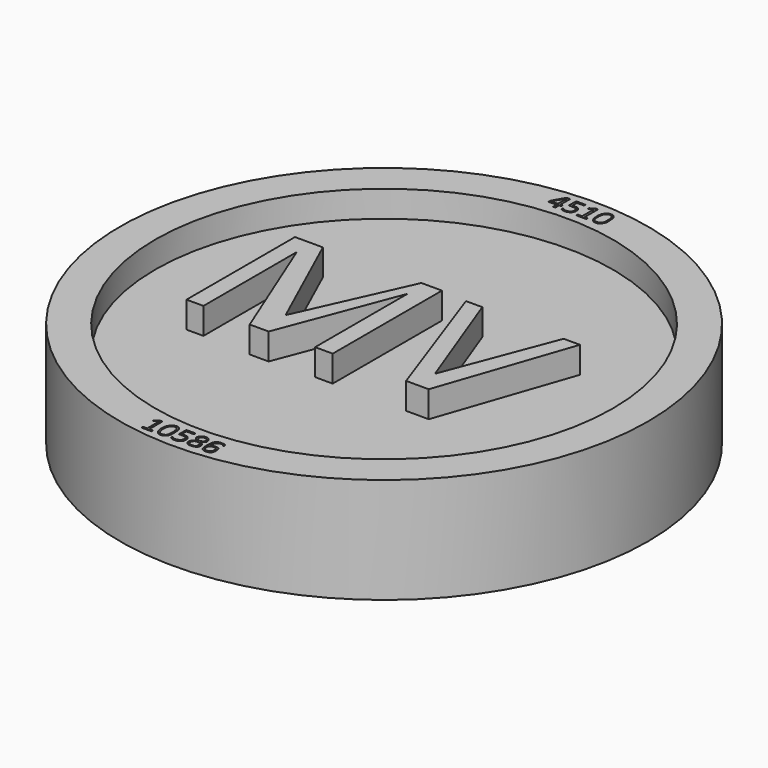
from build123d import *

# Parameters (mm, degrees)
F0_R     = 9.525
F0_R_2   = 8.255
F1_DEPTH = 1.905
F2_DEPTH = 0.9525
F3_DEPTH = 1.905
F4_DEPTH = 0.9525
F5_DEPTH = 0.9525


with BuildPart() as f1:
    # F0 (on Top) → F1 (new body, symmetric)
    with BuildSketch(Plane.XY):
        Circle(F0_R)
        Polygon((-1.3951599831, -8.6530307308), (-1.2445116881, -8.5451034829), (-1.1590693612, -8.5406070575), (-1.1590693612, -9.1431997716), (-1.0219119722, -9.1431997716), (-1.0219119722, -9.2084063217), (-1.3861660846, -9.2084063217), (-1.3861660846, -9.1409515589), (-1.2355177896, -9.1409515589), (-1.2355177896, -8.6013162509), (-1.3951599831, -8.6980005726), align=None, mode=Mode.SUBTRACT)
        with BuildLine():
            add(Edge.make_bspline(
                [(-0.7325854385, -8.5295895115), (-0.694488356, -8.5186539781), (-0.598456452, -8.5132604432), (-0.4668643613, -8.6329966153), (-0.473857386, -8.837187338), (-0.4553138278, -9.0349475641), (-0.5302551626, -9.1555896379), (-0.6225535187, -9.2273104606), (-0.8112157175, -9.2263758785), (-0.9326151926, -9.0135050278), (-0.9310493686, -8.7507865437), (-0.8342967815, -8.5794165711), (-0.7676343486, -8.5396500857), (-0.7325854385, -8.5295895115)],
                knots=[0, 0, 0, 0, 0.0792910129, 0.1672150952, 0.2671987172, 0.3665309655, 0.4474281264, 0.5218186122, 0.6112165947, 0.7163483965, 0.8308699787, 0.9270531129, 1, 1, 1, 1], degree=3))
        make_face(mode=Mode.SUBTRACT)
        with BuildLine():
            Line((-0.3130540426, -8.8640088215), (-0.3130540426, -8.5312332958))
            Line((-0.3130540426, -8.5312332958), (0.0197213649, -8.5312332958))
            Line((0.0197213649, -8.5312332958), (0.0197213649, -8.6009362713))
            Line((0.0197213649, -8.6009362713), (-0.2523450239, -8.6009362713))
            Line((-0.2523450239, -8.6009362713), (-0.2523450239, -8.8100451976))
            Line((-0.2523450239, -8.8100451976), (-0.0724664205, -8.8100451976))
            add(Edge.make_bspline(
                [(-0.1061936564, -8.8640088215), (-0.08878096, -8.8688395898), (-0.0427447295, -8.8816112803), (0.0001901198, -9.062268373), (-0.0988020252, -9.1446335354), (-0.2699482189, -9.1764570385), (-0.3351037073, -9.0894257934), (-0.3768801287, -9.1540332129), (-0.2913658027, -9.2190433777), (-0.0583716037, -9.2381349457), (0.0754566951, -9.0835836428), (0.0463306738, -8.8831391739), (-0.028410204, -8.8303870926), (-0.0724664205, -8.8100451976)],
                knots=[0, 0, 0, 0, 0.0623687221, 0.1658931602, 0.255157042, 0.3600933619, 0.4334544403, 0.4858395153, 0.5621831445, 0.6849553413, 0.7952951297, 0.905186019, 1, 1, 1, 1], degree=3))
            Line((-0.1061936564, -8.8640088215), (-0.3130540426, -8.8640088215))
        make_face(mode=Mode.SUBTRACT)
        with BuildLine():
            add(Edge.make_bspline(
                [(0.3356126728, -8.530912197), (0.3755638656, -8.5205027856), (0.4629959878, -8.5238627362), (0.5633196028, -8.5990280497), (0.5871538506, -8.6821558107), (0.599756856, -8.7892928168), (0.3721631381, -8.8581760383), (0.6155486438, -8.8997680176), (0.6299626951, -9.1331090491), (0.5111417851, -9.1809193235), (0.4632399938, -9.2014095625), (0.3000856497, -9.2075659862), (0.1965721483, -9.1456502108), (0.1384226358, -8.9577611015), (0.3914234177, -8.8555054026), (0.1515975365, -8.7551259256), (0.2218635711, -8.5883514), (0.2953774633, -8.5413956098), (0.3356126728, -8.530912197)],
                knots=[0, 0, 0, 0, 0.0618712277, 0.1216549185, 0.1725943034, 0.2261194555, 0.2915803701, 0.3570475386, 0.4338498476, 0.4909476215, 0.5320755879, 0.6004432316, 0.6609982939, 0.7303071838, 0.8024583934, 0.8715290842, 0.9376889242, 1, 1, 1, 1], degree=3))
        make_face(mode=Mode.SUBTRACT)
        with BuildLine():
            add(Edge.make_bspline(
                [(1.1000286322, -8.6331740022), (1.0919489468, -8.6275154276), (1.0893084931, -8.5921908876), (0.9886948629, -8.5844599675), (0.9032522086, -8.5849936436), (0.8366871623, -8.6689470682), (0.8001652962, -8.7301459856), (0.7865363263, -8.872731282), (0.8902588366, -8.8024443911), (1.03455332, -8.7988957788), (1.142202666, -8.8665536763), (1.1480954406, -9.1254508363), (1.0281815275, -9.2189323482), (0.8466835351, -9.2168213079), (0.708680849, -9.1199977075), (0.7340996051, -8.7235430379), (0.7467084889, -8.6493977358), (0.8430282241, -8.5283971321), (1.0051546697, -8.5297678427), (1.1087739938, -8.5384707531), (1.1395844082, -8.6358296554), (1.1068988089, -8.6379855023), (1.1000286322, -8.6331740022)],
                knots=[0, 0, 0, 0, 0.0272796803, 0.0718765845, 0.1155693355, 0.161458938, 0.2042733645, 0.2506697251, 0.293125102, 0.3498460132, 0.3993876083, 0.470607145, 0.5254238768, 0.5858900613, 0.6431081949, 0.733668426, 0.7767054938, 0.830802462, 0.890028405, 0.936752065, 0.9768040196, 1, 1, 1, 1], degree=3))
        make_face(mode=Mode.SUBTRACT)
        Polygon((-1.0375691345, 8.8068433106), (-0.7947330014, 9.22955852), (-0.6688179565, 9.22955852), (-0.6688179565, 8.8023468852), (-0.5878725788, 8.8023468852), (-0.5878725788, 8.7348921224), (-0.6688179565, 8.7348921224), (-0.6688179565, 8.5595101118), (-0.7542602834, 8.5595101118), (-0.7542602834, 8.7169045582), (-1.0375691345, 8.7169045582), align=None, mode=Mode.SUBTRACT)
        with BuildLine():
            Line((-0.4529636353, 8.8967829943), (-0.4529636353, 9.22955852))
            Line((-0.4529636353, 9.22955852), (-0.1156912549, 9.22955852))
            Line((-0.1156912549, 9.22955852), (-0.1156912549, 9.1621037573))
            Line((-0.1156912549, 9.1621037573), (-0.3675213084, 9.1621037573))
            Line((-0.3675213084, 9.1621037573), (-0.3675213084, 8.9597404003))
            Line((-0.3675213084, 8.9597404003), (-0.2101275459, 8.9597404003))
            add(Edge.make_bspline(
                [(-0.2739850606, 8.8967829943), (-0.2601480212, 8.8904600335), (-0.1771303875, 8.8934701463), (-0.1397957843, 8.8140190969), (-0.1333147566, 8.6513328942), (-0.2712314833, 8.6061213548), (-0.4158916196, 8.5964243556), (-0.4563615133, 8.6682317071), (-0.4855222574, 8.6121259078), (-0.4391459941, 8.5444167798), (-0.2380009448, 8.5479975171), (-0.1772834066, 8.5899293666), (-0.1151549326, 8.6188684882), (-0.068310583, 8.7411691828), (-0.0865679501, 8.8972959176), (-0.1709831536, 8.9399575948), (-0.2101275459, 8.9597404003)],
                knots=[0, 0, 0, 0, 0.0655136068, 0.130205982, 0.215223191, 0.2969575923, 0.3818970487, 0.4342469042, 0.4773941856, 0.5359305424, 0.6348886547, 0.6968096855, 0.7524908212, 0.832346209, 0.9186916053, 1, 1, 1, 1], degree=3))
            Line((-0.2739850606, 8.8967829943), (-0.4529636353, 8.8967829943))
        make_face(mode=Mode.SUBTRACT)
        Circle(F0_R_2, mode=Mode.SUBTRACT)
        Polygon((0.2462355478, 9.1407261789), (0.1126825082, 9.073949419), (0.0920135863, 9.0707698837), (0.0920135863, 9.1248266399), (0.2605447953, 9.2265810817), (0.3384507436, 9.2265810817), (0.3384507436, 8.6224125698), (0.4576945503, 8.6224125698), (0.4576945503, 8.5588162765), (0.0936035067, 8.5588162765), (0.0936035067, 8.6240023375), (0.2462355478, 8.6240023375), align=None, mode=Mode.SUBTRACT)
        with BuildLine():
            add(Edge.make_bspline(
                [(0.8066518349, 9.2266853899), (0.8356636163, 9.2277041351), (0.9030044341, 9.226075903), (1.0002347916, 9.1173239027), (1.023045702, 8.9755928684), (1.036475031, 8.7143286402), (0.9422841467, 8.613581228), (0.8585594981, 8.5334077149), (0.6713084665, 8.5552121068), (0.5852846712, 8.7035614297), (0.5641475769, 8.9342742717), (0.6001818229, 9.1117751213), (0.7170444559, 9.2195821933), (0.7784248537, 9.2256942028), (0.8066518349, 9.2266853899)],
                knots=[0, 0, 0, 0, 0.0650677134, 0.1429910352, 0.2270210585, 0.3356485181, 0.4136659971, 0.4847413422, 0.57198415, 0.6583235465, 0.7623194063, 0.8543677014, 0.9366924392, 1, 1, 1, 1], degree=3))
        make_face(mode=Mode.SUBTRACT)
    extrude(amount=F1_DEPTH, both=True)

    # F0 (on Top) → F2 (join, symmetric)
    with BuildSketch(Plane.XY):
        Circle(F0_R_2)
        Polygon((-4.6643195674, -2.3178029805), (-5.2759069949, -2.3178029805), (-5.2759069949, 2.5748948101), (-5.0960280932, 2.5748948101), (-4.2685871013, 2.5748948101), (-2.5057764724, -1.3104829704), (-0.7429663092, 2.610870637), (0, 2.610870637), (0, -2.3178029805), (-0.6350391777, -2.3178029805), (-0.6350391777, 1.8553804839), (-2.2539466154, -2.3897546344), (-2.9374852311, -2.3897546344), (-4.6643195674, 1.891356078), align=None, mode=Mode.SUBTRACT)
        Polygon((2.6529424358, -2.3231687956), (0.9285868728, 2.5322537404), (1.5184980584, 2.5322537404), (3.0159647577, -1.4761168277), (4.5134318061, 2.4566242937), (5.1033427007, 2.4566242937), (3.4697426017, -2.3231687956), align=None, mode=Mode.SUBTRACT)
        Polygon((-5.2759069949, 2.5748948101), (-5.2759069949, -2.3178029805), (-4.6643195674, -2.3178029805), (-4.6643195674, 1.891356078), (-2.9374852311, -2.3897546344), (-2.2539466154, -2.3897546344), (-0.6350391777, 1.8553804839), (-0.6350391777, -2.3178029805), (0, -2.3178029805), (0, 2.610870637), (-0.7429663092, 2.610870637), (-2.5057764724, -1.3104829704), (-4.2685871013, 2.5748948101), (-5.0960280932, 2.5748948101), align=None)
        Polygon((1.5184980584, 2.5322537404), (0.9285868728, 2.5322537404), (2.6529424358, -2.3231687956), (3.4697426017, -2.3231687956), (5.1033427007, 2.4566242937), (4.5134318061, 2.4566242937), (3.0159647577, -1.4761168277), align=None)
    extrude(amount=F2_DEPTH, both=True)

    # F0 (on Top) → F3 (join)
    with BuildSketch(Plane.XY):
        Polygon((-5.2759069949, 2.5748948101), (-5.2759069949, -2.3178029805), (-4.6643195674, -2.3178029805), (-4.6643195674, 1.891356078), (-2.9374852311, -2.3897546344), (-2.2539466154, -2.3897546344), (-0.6350391777, 1.8553804839), (-0.6350391777, -2.3178029805), (0, -2.3178029805), (0, 2.610870637), (-0.7429663092, 2.610870637), (-2.5057764724, -1.3104829704), (-4.2685871013, 2.5748948101), (-5.0960280932, 2.5748948101), align=None)
        Polygon((1.5184980584, 2.5322537404), (0.9285868728, 2.5322537404), (2.6529424358, -2.3231687956), (3.4697426017, -2.3231687956), (5.1033427007, 2.4566242937), (4.5134318061, 2.4566242937), (3.0159647577, -1.4761168277), align=None)
    extrude(amount=F3_DEPTH)



with BuildPart() as f1b:
    # F0 (on Top) → F1, piece 2 (new body, symmetric)
    with BuildSketch(Plane.XY):
        with BuildLine():
            add(Edge.make_bspline(
                [(-0.7056364557, -8.5862921551), (-0.6749598451, -8.5788539294), (-0.6154051945, -8.5916187466), (-0.5302737881, -8.6763906944), (-0.5110017751, -9.0910240758), (-0.6191818694, -9.1484923022), (-0.7775162156, -9.1734948456), (-0.8753592441, -8.987404333), (-0.863777607, -8.6821581866), (-0.7483395928, -8.5966464793), (-0.7056364557, -8.5862921551)],
                knots=[0, 0, 0, 0, 0.0869953602, 0.1883892706, 0.376243649, 0.4747134022, 0.584423645, 0.713858861, 0.8788987856, 1, 1, 1, 1], degree=3))
        make_face()
    extrude(amount=F1_DEPTH, both=True)


with BuildPart() as f1c:
    # F0 (on Top) → F1, piece 3 (new body, symmetric)
    with BuildSketch(Plane.XY):
        with BuildLine():
            add(Edge.make_bspline(
                [(0.3955436065, -8.9011455625), (0.4178982746, -8.9024802295), (0.4564840971, -8.9121952769), (0.5098843992, -8.956330871), (0.538504284, -9.0179324678), (0.5267717546, -9.0994944629), (0.4818763147, -9.1568813484), (0.3872632665, -9.1543922468), (0.2972080697, -9.1514571408), (0.2365914479, -9.0910445664), (0.2390282469, -8.9736821072), (0.3070037433, -8.9059765314), (0.3693859568, -8.8995838416), (0.3955436065, -8.9011455625)],
                knots=[0, 0, 0, 0, 0.0804782787, 0.1636067548, 0.2466777227, 0.3377083866, 0.4201479157, 0.517369013, 0.6140786063, 0.7029280419, 0.8091313578, 0.9058307369, 1, 1, 1, 1], degree=3))
        make_face()
    extrude(amount=F1_DEPTH, both=True)


with BuildPart() as f1d:
    # F0 (on Top) → F1, piece 4 (new body, symmetric)
    with BuildSketch(Plane.XY):
        with BuildLine():
            add(Edge.make_bspline(
                [(0.3495283599, -8.5925385356), (0.3874543793, -8.5819729785), (0.4746549244, -8.5953328442), (0.5241674625, -8.6481249566), (0.5302317746, -8.7471085287), (0.473743285, -8.7947578121), (0.3967854091, -8.8193565318), (0.3332327154, -8.8035046144), (0.2781707359, -8.7571894123), (0.2674653949, -8.648760599), (0.3163316902, -8.6017865747), (0.3495283599, -8.5925385356)],
                knots=[0, 0, 0, 0, 0.135161764, 0.23679406, 0.3519394065, 0.4538559125, 0.562655046, 0.6597439079, 0.7603072423, 0.8816928188, 1, 1, 1, 1], degree=3))
        make_face()
    extrude(amount=F1_DEPTH, both=True)


with BuildPart() as f1e:
    # F0 (on Top) → F1, piece 5 (new body, symmetric)
    with BuildSketch(Plane.XY):
        with BuildLine():
            add(Edge.make_bspline(
                [(0.9272282477, -8.8670067489), (0.9510508559, -8.8667263185), (0.9917494655, -8.8626056276), (1.0558891359, -8.8943504131), (1.0763617157, -8.9669175414), (1.0801000409, -9.067001359), (1.0254670169, -9.1197417455), (0.9868252031, -9.1556817222), (0.8792157357, -9.150669163), (0.7946026271, -9.1005044185), (0.7787601903, -8.9780120339), (0.833171587, -8.8630413555), (0.9003123207, -8.8673235927), (0.9272282477, -8.8670067489)],
                knots=[0, 0, 0, 0, 0.0809688656, 0.1602861774, 0.2457444723, 0.344228083, 0.4281763039, 0.4989212753, 0.5992926202, 0.6950363368, 0.8023879824, 0.9085174861, 1, 1, 1, 1], degree=3))
        make_face()
    extrude(amount=F1_DEPTH, both=True)


with BuildPart() as f1f:
    # F0 (on Top) → F1, piece 6 (new body, symmetric)
    with BuildSketch(Plane.XY):
        Polygon((-0.7607381558, 8.7903402746), (-0.7607381558, 9.1622862965), (-0.9919482982, 8.8221384212), (-0.9919482982, 8.7903402746), align=None)
    extrude(amount=F1_DEPTH, both=True)


with BuildPart() as f1g:
    # F0 (on Top) → F1, piece 7 (new body, symmetric)
    with BuildSketch(Plane.XY):
        with BuildLine():
            add(Edge.make_bspline(
                [(0.7969355211, 9.1732721776), (0.8183858919, 9.1794774058), (0.8729013985, 9.1772740026), (0.9453804827, 9.0853763746), (0.9658440309, 8.9597899175), (0.9685739875, 8.8100407074), (0.9488342294, 8.6789829072), (0.8830664255, 8.6131024514), (0.7738697202, 8.6083131675), (0.6822810129, 8.6235358392), (0.6192528002, 8.7490822948), (0.622675418, 9.0163217273), (0.6883648981, 9.1313580877), (0.7524784887, 9.1651529074), (0.7950217696, 9.1727431864)],
                knots=[0, 0, 0, 0, 0.0629706114, 0.1416055969, 0.2277453529, 0.3219830841, 0.4082977015, 0.4776293539, 0.5555499369, 0.6251304735, 0.7110309707, 0.8353640155, 0.9204092906, 1, 1, 1, 1], degree=3))
            add(Edge.make_bspline(
                [(0.7950217696, 9.1727431864), (0.7956596867, 9.1729195168), (0.7962976039, 9.1730958472), (0.7969355211, 9.1732721776)],
                knots=[0, 0, 0, 0, 0.0019855167, 0.0019855167, 0.0019855167, 0.0019855167], degree=3))
        make_face()
    extrude(amount=F1_DEPTH, both=True)


with BuildPart() as f4:
    # F0 (on Top) → F4 (new body, symmetric)
    with BuildSketch(Plane.XY):
        Polygon((-1.1590693612, -8.5406070575), (-1.2445116881, -8.5451034829), (-1.3951599831, -8.6530307308), (-1.3951599831, -8.6980005726), (-1.2355177896, -8.6013162509), (-1.2355177896, -9.1409515589), (-1.3861660846, -9.1409515589), (-1.3861660846, -9.2084063217), (-1.0219119722, -9.2084063217), (-1.0219119722, -9.1431997716), (-1.1590693612, -9.1431997716), align=None)
    extrude(amount=F4_DEPTH, both=True)


with BuildPart() as f4b:
    # F0 (on Top) → F4, piece 2 (new body, symmetric)
    with BuildSketch(Plane.XY):
        with BuildLine():
            add(Edge.make_bspline(
                [(-0.7325854385, -8.5295895115), (-0.694488356, -8.5186539781), (-0.598456452, -8.5132604432), (-0.4668643613, -8.6329966153), (-0.473857386, -8.837187338), (-0.4553138278, -9.0349475641), (-0.5302551626, -9.1555896379), (-0.6225535187, -9.2273104606), (-0.8112157175, -9.2263758785), (-0.9326151926, -9.0135050278), (-0.9310493686, -8.7507865437), (-0.8342967815, -8.5794165711), (-0.7676343486, -8.5396500857), (-0.7325854385, -8.5295895115)],
                knots=[0, 0, 0, 0, 0.0792910129, 0.1672150952, 0.2671987172, 0.3665309655, 0.4474281264, 0.5218186122, 0.6112165947, 0.7163483965, 0.8308699787, 0.9270531129, 1, 1, 1, 1], degree=3))
        make_face()
        with BuildLine():
            add(Edge.make_bspline(
                [(-0.7056364557, -8.5862921551), (-0.6749598451, -8.5788539294), (-0.6154051945, -8.5916187466), (-0.5302737881, -8.6763906944), (-0.5110017751, -9.0910240758), (-0.6191818694, -9.1484923022), (-0.7775162156, -9.1734948456), (-0.8753592441, -8.987404333), (-0.863777607, -8.6821581866), (-0.7483395928, -8.5966464793), (-0.7056364557, -8.5862921551)],
                knots=[0, 0, 0, 0, 0.0869953602, 0.1883892706, 0.376243649, 0.4747134022, 0.584423645, 0.713858861, 0.8788987856, 1, 1, 1, 1], degree=3))
        make_face(mode=Mode.SUBTRACT)
    extrude(amount=F4_DEPTH, both=True)


with BuildPart() as f4c:
    # F0 (on Top) → F4, piece 3 (new body, symmetric)
    with BuildSketch(Plane.XY):
        with BuildLine():
            Line((0.0197213649, -8.5312332958), (-0.3130540426, -8.5312332958))
            Line((-0.3130540426, -8.5312332958), (-0.3130540426, -8.8640088215))
            Line((-0.3130540426, -8.8640088215), (-0.1061936564, -8.8640088215))
            add(Edge.make_bspline(
                [(-0.1061936564, -8.8640088215), (-0.08878096, -8.8688395898), (-0.0427447295, -8.8816112803), (0.0001901198, -9.062268373), (-0.0988020252, -9.1446335354), (-0.2699482189, -9.1764570385), (-0.3351037073, -9.0894257934), (-0.3768801287, -9.1540332129), (-0.2913658027, -9.2190433777), (-0.0583716037, -9.2381349457), (0.0754566951, -9.0835836428), (0.0463306738, -8.8831391739), (-0.028410204, -8.8303870926), (-0.0724664205, -8.8100451976)],
                knots=[0, 0, 0, 0, 0.0623687221, 0.1658931602, 0.255157042, 0.3600933619, 0.4334544403, 0.4858395153, 0.5621831445, 0.6849553413, 0.7952951297, 0.905186019, 1, 1, 1, 1], degree=3))
            Line((-0.0724664205, -8.8100451976), (-0.2523450239, -8.8100451976))
            Line((-0.2523450239, -8.8100451976), (-0.2523450239, -8.6009362713))
            Line((-0.2523450239, -8.6009362713), (0.0197213649, -8.6009362713))
            Line((0.0197213649, -8.6009362713), (0.0197213649, -8.5312332958))
        make_face()
    extrude(amount=F4_DEPTH, both=True)


with BuildPart() as f4d:
    # F0 (on Top) → F4, piece 4 (new body, symmetric)
    with BuildSketch(Plane.XY):
        with BuildLine():
            add(Edge.make_bspline(
                [(0.3356126728, -8.530912197), (0.3755638656, -8.5205027856), (0.4629959878, -8.5238627362), (0.5633196028, -8.5990280497), (0.5871538506, -8.6821558107), (0.599756856, -8.7892928168), (0.3721631381, -8.8581760383), (0.6155486438, -8.8997680176), (0.6299626951, -9.1331090491), (0.5111417851, -9.1809193235), (0.4632399938, -9.2014095625), (0.3000856497, -9.2075659862), (0.1965721483, -9.1456502108), (0.1384226358, -8.9577611015), (0.3914234177, -8.8555054026), (0.1515975365, -8.7551259256), (0.2218635711, -8.5883514), (0.2953774633, -8.5413956098), (0.3356126728, -8.530912197)],
                knots=[0, 0, 0, 0, 0.0618712277, 0.1216549185, 0.1725943034, 0.2261194555, 0.2915803701, 0.3570475386, 0.4338498476, 0.4909476215, 0.5320755879, 0.6004432316, 0.6609982939, 0.7303071838, 0.8024583934, 0.8715290842, 0.9376889242, 1, 1, 1, 1], degree=3))
        make_face()
        with BuildLine():
            add(Edge.make_bspline(
                [(0.3955436065, -8.9011455625), (0.4178982746, -8.9024802295), (0.4564840971, -8.9121952769), (0.5098843992, -8.956330871), (0.538504284, -9.0179324678), (0.5267717546, -9.0994944629), (0.4818763147, -9.1568813484), (0.3872632665, -9.1543922468), (0.2972080697, -9.1514571408), (0.2365914479, -9.0910445664), (0.2390282469, -8.9736821072), (0.3070037433, -8.9059765314), (0.3693859568, -8.8995838416), (0.3955436065, -8.9011455625)],
                knots=[0, 0, 0, 0, 0.0804782787, 0.1636067548, 0.2466777227, 0.3377083866, 0.4201479157, 0.517369013, 0.6140786063, 0.7029280419, 0.8091313578, 0.9058307369, 1, 1, 1, 1], degree=3))
        make_face(mode=Mode.SUBTRACT)
        with BuildLine():
            add(Edge.make_bspline(
                [(0.3495283599, -8.5925385356), (0.3874543793, -8.5819729785), (0.4746549244, -8.5953328442), (0.5241674625, -8.6481249566), (0.5302317746, -8.7471085287), (0.473743285, -8.7947578121), (0.3967854091, -8.8193565318), (0.3332327154, -8.8035046144), (0.2781707359, -8.7571894123), (0.2674653949, -8.648760599), (0.3163316902, -8.6017865747), (0.3495283599, -8.5925385356)],
                knots=[0, 0, 0, 0, 0.135161764, 0.23679406, 0.3519394065, 0.4538559125, 0.562655046, 0.6597439079, 0.7603072423, 0.8816928188, 1, 1, 1, 1], degree=3))
        make_face(mode=Mode.SUBTRACT)
    extrude(amount=F4_DEPTH, both=True)


with BuildPart() as f4e:
    # F0 (on Top) → F4, piece 5 (new body, symmetric)
    with BuildSketch(Plane.XY):
        Polygon((-0.6688179565, 9.22955852), (-0.7947330014, 9.22955852), (-1.0375691345, 8.8068433106), (-1.0375691345, 8.7169045582), (-0.7542602834, 8.7169045582), (-0.7542602834, 8.5595101118), (-0.6688179565, 8.5595101118), (-0.6688179565, 8.7348921224), (-0.5878725788, 8.7348921224), (-0.5878725788, 8.8023468852), (-0.6688179565, 8.8023468852), align=None)
        Polygon((-0.9919482982, 8.8221384212), (-0.7607381558, 9.1622862965), (-0.7607381558, 8.7903402746), (-0.9919482982, 8.7903402746), align=None, mode=Mode.SUBTRACT)
    extrude(amount=F4_DEPTH, both=True)


with BuildPart() as f4f:
    # F0 (on Top) → F4, piece 6 (new body, symmetric)
    with BuildSketch(Plane.XY):
        with BuildLine():
            Line((-0.1156912549, 9.22955852), (-0.4529636353, 9.22955852))
            Line((-0.4529636353, 9.22955852), (-0.4529636353, 8.8967829943))
            Line((-0.4529636353, 8.8967829943), (-0.2739850606, 8.8967829943))
            add(Edge.make_bspline(
                [(-0.2739850606, 8.8967829943), (-0.2601480212, 8.8904600335), (-0.1771303875, 8.8934701463), (-0.1397957843, 8.8140190969), (-0.1333147566, 8.6513328942), (-0.2712314833, 8.6061213548), (-0.4158916196, 8.5964243556), (-0.4563615133, 8.6682317071), (-0.4855222574, 8.6121259078), (-0.4391459941, 8.5444167798), (-0.2380009448, 8.5479975171), (-0.1772834066, 8.5899293666), (-0.1151549326, 8.6188684882), (-0.068310583, 8.7411691828), (-0.0865679501, 8.8972959176), (-0.1709831536, 8.9399575948), (-0.2101275459, 8.9597404003)],
                knots=[0, 0, 0, 0, 0.0655136068, 0.130205982, 0.215223191, 0.2969575923, 0.3818970487, 0.4342469042, 0.4773941856, 0.5359305424, 0.6348886547, 0.6968096855, 0.7524908212, 0.832346209, 0.9186916053, 1, 1, 1, 1], degree=3))
            Line((-0.2101275459, 8.9597404003), (-0.3675213084, 8.9597404003))
            Line((-0.3675213084, 8.9597404003), (-0.3675213084, 9.1621037573))
            Line((-0.3675213084, 9.1621037573), (-0.1156912549, 9.1621037573))
            Line((-0.1156912549, 9.1621037573), (-0.1156912549, 9.22955852))
        make_face()
    extrude(amount=F4_DEPTH, both=True)


with BuildPart() as f4g:
    # F0 (on Top) → F4, piece 7 (new body, symmetric)
    with BuildSketch(Plane.XY):
        Polygon((0.0920135863, 9.0707698837), (0.1126825082, 9.073949419), (0.2462355478, 9.1407261789), (0.2462355478, 8.6240023375), (0.0936035067, 8.6240023375), (0.0936035067, 8.5588162765), (0.4576945503, 8.5588162765), (0.4576945503, 8.6224125698), (0.3384507436, 8.6224125698), (0.3384507436, 9.2265810817), (0.2605447953, 9.2265810817), (0.0920135863, 9.1248266399), align=None)
    extrude(amount=F4_DEPTH, both=True)


with BuildPart() as f4h:
    # F0 (on Top) → F4, piece 8 (new body, symmetric)
    with BuildSketch(Plane.XY):
        with BuildLine():
            add(Edge.make_bspline(
                [(0.8066518349, 9.2266853899), (0.8356636163, 9.2277041351), (0.9030044341, 9.226075903), (1.0002347916, 9.1173239027), (1.023045702, 8.9755928684), (1.036475031, 8.7143286402), (0.9422841467, 8.613581228), (0.8585594981, 8.5334077149), (0.6713084665, 8.5552121068), (0.5852846712, 8.7035614297), (0.5641475769, 8.9342742717), (0.6001818229, 9.1117751213), (0.7170444559, 9.2195821933), (0.7784248537, 9.2256942028), (0.8066518349, 9.2266853899)],
                knots=[0, 0, 0, 0, 0.0650677134, 0.1429910352, 0.2270210585, 0.3356485181, 0.4136659971, 0.4847413422, 0.57198415, 0.6583235465, 0.7623194063, 0.8543677014, 0.9366924392, 1, 1, 1, 1], degree=3))
        make_face()
        with BuildLine():
            add(Edge.make_bspline(
                [(0.7950217696, 9.1727431864), (0.7956596867, 9.1729195168), (0.7962976039, 9.1730958472), (0.7969355211, 9.1732721776)],
                knots=[0, 0, 0, 0, 0.0019855167, 0.0019855167, 0.0019855167, 0.0019855167], degree=3))
            add(Edge.make_bspline(
                [(0.7969355211, 9.1732721776), (0.8183858919, 9.1794774058), (0.8729013985, 9.1772740026), (0.9453804827, 9.0853763746), (0.9658440309, 8.9597899175), (0.9685739875, 8.8100407074), (0.9488342294, 8.6789829072), (0.8830664255, 8.6131024514), (0.7738697202, 8.6083131675), (0.6822810129, 8.6235358392), (0.6192528002, 8.7490822948), (0.622675418, 9.0163217273), (0.6883648981, 9.1313580877), (0.7524784887, 9.1651529074), (0.7950217696, 9.1727431864)],
                knots=[0, 0, 0, 0, 0.0629706114, 0.1416055969, 0.2277453529, 0.3219830841, 0.4082977015, 0.4776293539, 0.5555499369, 0.6251304735, 0.7110309707, 0.8353640155, 0.9204092906, 1, 1, 1, 1], degree=3))
        make_face(mode=Mode.SUBTRACT)
    extrude(amount=F4_DEPTH, both=True)


with BuildPart() as f4i:
    # F0 (on Top) → F4, piece 9 (new body, symmetric)
    with BuildSketch(Plane.XY):
        with BuildLine():
            add(Edge.make_bspline(
                [(1.1000286322, -8.6331740022), (1.0919489468, -8.6275154276), (1.0893084931, -8.5921908876), (0.9886948629, -8.5844599675), (0.9032522086, -8.5849936436), (0.8366871623, -8.6689470682), (0.8001652962, -8.7301459856), (0.7865363263, -8.872731282), (0.8902588366, -8.8024443911), (1.03455332, -8.7988957788), (1.142202666, -8.8665536763), (1.1480954406, -9.1254508363), (1.0281815275, -9.2189323482), (0.8466835351, -9.2168213079), (0.708680849, -9.1199977075), (0.7340996051, -8.7235430379), (0.7467084889, -8.6493977358), (0.8430282241, -8.5283971321), (1.0051546697, -8.5297678427), (1.1087739938, -8.5384707531), (1.1395844082, -8.6358296554), (1.1068988089, -8.6379855023), (1.1000286322, -8.6331740022)],
                knots=[0, 0, 0, 0, 0.0272796803, 0.0718765845, 0.1155693355, 0.161458938, 0.2042733645, 0.2506697251, 0.293125102, 0.3498460132, 0.3993876083, 0.470607145, 0.5254238768, 0.5858900613, 0.6431081949, 0.733668426, 0.7767054938, 0.830802462, 0.890028405, 0.936752065, 0.9768040196, 1, 1, 1, 1], degree=3))
        make_face()
        with BuildLine():
            add(Edge.make_bspline(
                [(0.9272282477, -8.8670067489), (0.9510508559, -8.8667263185), (0.9917494655, -8.8626056276), (1.0558891359, -8.8943504131), (1.0763617157, -8.9669175414), (1.0801000409, -9.067001359), (1.0254670169, -9.1197417455), (0.9868252031, -9.1556817222), (0.8792157357, -9.150669163), (0.7946026271, -9.1005044185), (0.7787601903, -8.9780120339), (0.833171587, -8.8630413555), (0.9003123207, -8.8673235927), (0.9272282477, -8.8670067489)],
                knots=[0, 0, 0, 0, 0.0809688656, 0.1602861774, 0.2457444723, 0.344228083, 0.4281763039, 0.4989212753, 0.5992926202, 0.6950363368, 0.8023879824, 0.9085174861, 1, 1, 1, 1], degree=3))
        make_face(mode=Mode.SUBTRACT)
    extrude(amount=F4_DEPTH, both=True)


with BuildPart() as f1_1:
    add(f1.part)

    add(f1b.part)  # F5 merges F1b

    add(f1c.part)  # F5 merges F1c

    add(f1d.part)  # F5 merges F1d

    add(f1e.part)  # F5 merges F1e

    add(f1f.part)  # F5 merges F1f

    add(f1g.part)  # F5 merges F1g

    add(f4.part)  # F5 merges F4

    add(f4b.part)  # F5 merges F4b

    add(f4c.part)  # F5 merges F4c

    add(f4d.part)  # F5 merges F4d

    add(f4e.part)  # F5 merges F4e

    add(f4f.part)  # F5 merges F4f

    add(f4g.part)  # F5 merges F4g

    add(f4h.part)  # F5 merges F4h

    add(f4i.part)  # F5 merges F4i
    # F4_face (on face) → F5 (join, symmetric)
    with BuildSketch(Plane(origin=(-0.7803742004, 8.8928666823, -0.9525), x_dir=(1, 0, 0), z_dir=(0, 0, -1))):
        Polygon((-0.014358801, -0.3366918377), (0.1115562439, -0.3366918377), (0.1115562439, 0.0905197971), (0.1925016216, 0.0905197971), (0.1925016216, 0.1579745598), (0.1115562439, 0.1579745598), (0.1115562439, 0.3333565705), (0.026113917, 0.3333565705), (0.026113917, 0.175962124), (-0.2571949341, 0.175962124), (-0.2571949341, 0.0860233717), align=None)
        Polygon((0.0196360446, -0.2694196142), (-0.2115740978, 0.070728261), (-0.2115740978, 0.1025264077), (0.0196360446, 0.1025264077), align=None, mode=Mode.SUBTRACT)
        with BuildLine():
            Line((0.3274105651, -0.3366918377), (0.6646829455, -0.3366918377))
            Line((0.6646829455, -0.3366918377), (0.6646829455, -0.269237075))
            Line((0.6646829455, -0.269237075), (0.412852892, -0.269237075))
            Line((0.412852892, -0.269237075), (0.412852892, -0.066873718))
            Line((0.412852892, -0.066873718), (0.5702466545, -0.066873718))
            add(Edge.make_bspline(
                [(0.5063891398, -0.003916312), (0.5202261792, 0.0024066488), (0.6032438129, -0.000603464), (0.6405784161, 0.0788475854), (0.6470594438, 0.241533788), (0.5091427171, 0.2867453275), (0.3644825808, 0.2964423267), (0.3240126871, 0.2246349751), (0.294851943, 0.2807407745), (0.3412282064, 0.3484499025), (0.5423732556, 0.3448691651), (0.6030907938, 0.3029373157), (0.6652192678, 0.2739981941), (0.7120636174, 0.1516974995), (0.6938062503, -0.0044292354), (0.6093910468, -0.0470909125), (0.5702466545, -0.066873718)],
                knots=[0, 0, 0, 0, 0.0655136068, 0.130205982, 0.215223191, 0.2969575923, 0.3818970487, 0.4342469042, 0.4773941856, 0.5359305424, 0.6348886547, 0.6968096855, 0.7524908212, 0.832346209, 0.9186916053, 1, 1, 1, 1], degree=3))
            Line((0.5063891398, -0.003916312), (0.3274105651, -0.003916312))
            Line((0.3274105651, -0.003916312), (0.3274105651, -0.3366918377))
        make_face()
        Polygon((1.118824944, 0.2704541125), (1.2380687507, 0.2704541125), (1.2380687507, 0.3340504058), (0.8739777071, 0.3340504058), (0.8739777071, 0.2688643448), (1.0266097482, 0.2688643448), (1.0266097482, -0.2478594966), (0.8930567086, -0.1810827367), (0.8723877867, -0.1779032014), (0.8723877867, -0.2319599576), (1.0409189957, -0.3337143995), (1.118824944, -0.3337143995), align=None)
        with BuildLine():
            add(Edge.make_bspline(
                [(1.5870260353, -0.3338187076), (1.6160378167, -0.3348374528), (1.6833786345, -0.3332092207), (1.780608992, -0.2244572204), (1.8034199024, -0.0827261862), (1.8168492314, 0.178538042), (1.7226583472, 0.2792854542), (1.6389336985, 0.3594589673), (1.4516826669, 0.3376545754), (1.3656588716, 0.1893052526), (1.3445217773, -0.0414075895), (1.3805560233, -0.218908439), (1.4974186563, -0.326715511), (1.5587990541, -0.3328275206), (1.5870260353, -0.3338187076)],
                knots=[0, 0, 0, 0, 0.0650677134, 0.1429910352, 0.2270210585, 0.3356485181, 0.4136659971, 0.4847413422, 0.57198415, 0.6583235465, 0.7623194063, 0.8543677014, 0.9366924392, 1, 1, 1, 1], degree=3))
        make_face()
        with BuildLine():
            add(Edge.make_bspline(
                [(1.5773097215, -0.2804054953), (1.5987600923, -0.2866107235), (1.6532755989, -0.2844073204), (1.7257546831, -0.1925096923), (1.7462182314, -0.0669232353), (1.7489481879, 0.0828259749), (1.7292084298, 0.2138837751), (1.6634406259, 0.2797642309), (1.5542439206, 0.2845535148), (1.4626552133, 0.2693308431), (1.3996270006, 0.1437843875), (1.4030496184, -0.1234550451), (1.4687390985, -0.2384914054), (1.5328526891, -0.2722862251), (1.57539597, -0.2798765041)],
                knots=[0, 0, 0, 0, 0.0629706114, 0.1416055969, 0.2277453529, 0.3219830841, 0.4082977015, 0.4776293539, 0.5555499369, 0.6251304735, 0.7110309707, 0.8353640155, 0.9204092906, 1, 1, 1, 1], degree=3))
            add(Edge.make_bspline(
                [(1.57539597, -0.2798765041), (1.5760338872, -0.2800528345), (1.5766718043, -0.2802291649), (1.5773097215, -0.2804054953)],
                knots=[0, 0, 0, 0, 0.0019855167, 0.0019855167, 0.0019855167, 0.0019855167], degree=3))
        make_face(mode=Mode.SUBTRACT)
        with BuildLine():
            add(Edge.make_bspline(
                [(1.1159868732, 17.4237788792), (1.155938066, 17.4133694678), (1.2433701882, 17.4167294184), (1.3436938032, 17.4918947319), (1.367528051, 17.575022493), (1.3801310564, 17.6821594991), (1.1525373385, 17.7510427206), (1.3959228442, 17.7926346999), (1.4103368955, 18.0259757314), (1.2915159855, 18.0737860058), (1.2436141942, 18.0942762448), (1.0804598501, 18.1004326685), (0.9769463487, 18.0385168931), (0.9187968362, 17.8506277838), (1.1717976181, 17.7483720848), (0.9319717369, 17.6479926078), (1.0022377715, 17.4812180823), (1.0757516637, 17.4342622921), (1.1159868732, 17.4237788792)],
                knots=[0, 0, 0, 0, 0.0618712277, 0.1216549185, 0.1725943034, 0.2261194555, 0.2915803701, 0.3570475386, 0.4338498476, 0.4909476215, 0.5320755879, 0.6004432316, 0.6609982939, 0.7303071838, 0.8024583934, 0.8715290842, 0.9376889242, 1, 1, 1, 1], degree=3))
        make_face()
        with BuildLine():
            add(Edge.make_bspline(
                [(1.1759178069, 17.7940122448), (1.198272475, 17.7953469118), (1.2368582975, 17.8050619591), (1.2902585996, 17.8491975533), (1.3188784844, 17.91079915), (1.307145955, 17.9923611452), (1.2622505151, 18.0497480306), (1.1676374669, 18.0472589291), (1.0775822701, 18.0443238231), (1.0169656483, 17.9839112486), (1.0194024473, 17.8665487895), (1.0873779437, 17.7988432136), (1.1497601572, 17.7924505239), (1.1759178069, 17.7940122448)],
                knots=[0, 0, 0, 0, 0.0804782787, 0.1636067548, 0.2466777227, 0.3377083866, 0.4201479157, 0.517369013, 0.6140786063, 0.7029280419, 0.8091313578, 0.9058307369, 1, 1, 1, 1], degree=3))
        make_face(mode=Mode.SUBTRACT)
        with BuildLine():
            add(Edge.make_bspline(
                [(1.1299025604, 17.4854052179), (1.1678285797, 17.4748396607), (1.2550291248, 17.4881995264), (1.3045416629, 17.5409916389), (1.310605975, 17.639975211), (1.2541174854, 17.6876244943), (1.1771596095, 17.7122232141), (1.1136069158, 17.6963712967), (1.0585449363, 17.6500560946), (1.0478395953, 17.5416272813), (1.0967058906, 17.494653257), (1.1299025604, 17.4854052179)],
                knots=[0, 0, 0, 0, 0.135161764, 0.23679406, 0.3519394065, 0.4538559125, 0.562655046, 0.6597439079, 0.7603072423, 0.8816928188, 1, 1, 1, 1], degree=3))
        make_face(mode=Mode.SUBTRACT)
        with BuildLine():
            Line((0.4673201578, 17.4240999781), (0.8000955653, 17.4240999781))
            Line((0.8000955653, 17.4240999781), (0.8000955653, 17.4938029535))
            Line((0.8000955653, 17.4938029535), (0.5280291765, 17.4938029535))
            Line((0.5280291765, 17.4938029535), (0.5280291765, 17.7029118799))
            Line((0.5280291765, 17.7029118799), (0.7079077799, 17.7029118799))
            add(Edge.make_bspline(
                [(0.674180544, 17.7568755038), (0.6915932404, 17.7617062721), (0.7376294709, 17.7744779626), (0.7805643202, 17.9551350553), (0.6815721752, 18.0375002177), (0.5104259815, 18.0693237207), (0.4452704931, 17.9822924756), (0.4034940717, 18.0468998952), (0.4890083977, 18.1119100599), (0.7220025967, 18.131001628), (0.8558308955, 17.9764503251), (0.8267048742, 17.7760058562), (0.7519639964, 17.7232537748), (0.7079077799, 17.7029118799)],
                knots=[0, 0, 0, 0, 0.0623687221, 0.1658931602, 0.255157042, 0.3600933619, 0.4334544403, 0.4858395153, 0.5621831445, 0.6849553413, 0.7952951297, 0.905186019, 1, 1, 1, 1], degree=3))
            Line((0.674180544, 17.7568755038), (0.4673201578, 17.7568755038))
            Line((0.4673201578, 17.7568755038), (0.4673201578, 17.4240999781))
        make_face()
        with BuildLine():
            add(Edge.make_bspline(
                [(0.0477887619, 17.4224561937), (0.0858858444, 17.4115206603), (0.1819177484, 17.4061271255), (0.3135098391, 17.5258632975), (0.3065168144, 17.7300540203), (0.3250603726, 17.9278142464), (0.2501190378, 18.0484563202), (0.1578206817, 18.1201771429), (-0.0308415171, 18.1192425608), (-0.1522409922, 17.9063717101), (-0.1506751682, 17.6436532259), (-0.053922581, 17.4722832533), (0.0127398518, 17.4325167679), (0.0477887619, 17.4224561937)],
                knots=[0, 0, 0, 0, 0.0792910129, 0.1672150952, 0.2671987172, 0.3665309655, 0.4474281264, 0.5218186122, 0.6112165947, 0.7163483965, 0.8308699787, 0.9270531129, 1, 1, 1, 1], degree=3))
        make_face()
        with BuildLine():
            add(Edge.make_bspline(
                [(0.0747377447, 17.4791588374), (0.1054143553, 17.4717206117), (0.1649690059, 17.4844854289), (0.2501004123, 17.5692573767), (0.2693724253, 17.983890758), (0.161192331, 18.0413589845), (0.0028579848, 18.0663615279), (-0.0949850437, 17.8802710153), (-0.0834034066, 17.5750248689), (0.0320346076, 17.4895131616), (0.0747377447, 17.4791588374)],
                knots=[0, 0, 0, 0, 0.0869953602, 0.1883892706, 0.376243649, 0.4747134022, 0.584423645, 0.713858861, 0.8788987856, 1, 1, 1, 1], degree=3))
        make_face(mode=Mode.SUBTRACT)
        Polygon((-0.4641374877, 17.4379701652), (-0.3786951608, 17.4334737398), (-0.3786951608, 18.0360664539), (-0.2415377718, 18.0360664539), (-0.2415377718, 18.101273004), (-0.6057918842, 18.101273004), (-0.6057918842, 18.0338182412), (-0.4551435892, 18.0338182412), (-0.4551435892, 17.4941829331), (-0.6147857827, 17.5908672549), (-0.6147857827, 17.5458974131), align=None)
        with BuildLine():
            add(Edge.make_bspline(
                [(1.8804028326, 17.5260406844), (1.8723231472, 17.5203821099), (1.8696826935, 17.4850575699), (1.7690690634, 17.4773266497), (1.683626409, 17.4778603258), (1.6170613627, 17.5618137505), (1.5805394966, 17.6230126679), (1.5669105267, 17.7655979643), (1.670633037, 17.6953110734), (1.8149275204, 17.6917624611), (1.9225768664, 17.7594203586), (1.928469641, 18.0183175185), (1.8085557279, 18.1117990305), (1.6270577355, 18.1096879902), (1.4890550494, 18.0128643898), (1.5144738056, 17.6164097202), (1.5270826893, 17.5422644181), (1.6234024245, 17.4212638144), (1.7855288701, 17.4226345249), (1.8891481942, 17.4313374354), (1.9199586086, 17.5286963376), (1.8872730093, 17.5308521846), (1.8804028326, 17.5260406844)],
                knots=[0, 0, 0, 0, 0.0272796803, 0.0718765845, 0.1155693355, 0.161458938, 0.2042733645, 0.2506697251, 0.293125102, 0.3498460132, 0.3993876083, 0.470607145, 0.5254238768, 0.5858900613, 0.6431081949, 0.733668426, 0.7767054938, 0.830802462, 0.890028405, 0.936752065, 0.9768040196, 1, 1, 1, 1], degree=3))
        make_face()
        with BuildLine():
            add(Edge.make_bspline(
                [(1.7076024482, 17.7598734312), (1.7314250563, 17.7595930008), (1.7721236659, 17.7554723098), (1.8362633363, 17.7872170953), (1.8567359161, 17.8597842236), (1.8604742413, 17.9598680413), (1.8058412173, 18.0126084278), (1.7671994035, 18.0485484045), (1.6595899361, 18.0435358453), (1.5749768275, 17.9933711008), (1.5591343907, 17.8708787162), (1.6135457874, 17.7559080377), (1.6806865211, 17.7601902749), (1.7076024482, 17.7598734312)],
                knots=[0, 0, 0, 0, 0.0809688656, 0.1602861774, 0.2457444723, 0.344228083, 0.4281763039, 0.4989212753, 0.5992926202, 0.6950363368, 0.8023879824, 0.9085174861, 1, 1, 1, 1], degree=3))
        make_face(mode=Mode.SUBTRACT)
    extrude(amount=F5_DEPTH, both=True)


solid = f1_1.part
